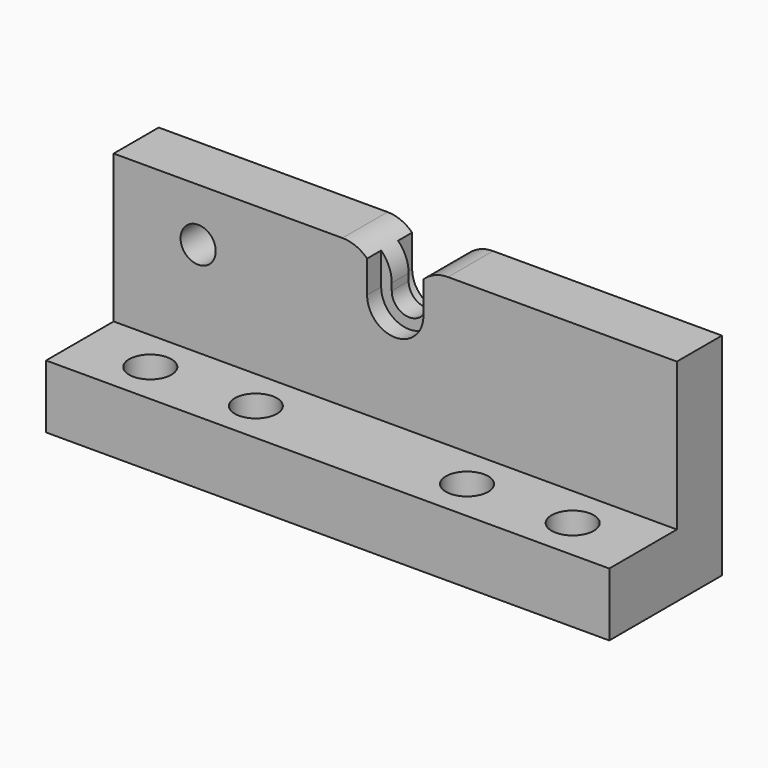
from build123d import *

# Parameters (mm, degrees)
F0_W      = 80
F0_H      = 8
F1_DEPTH  = 21
F3_DEPTH  = 25
F5_DEPTH  = 2.5
F7_DEPTH  = 2.5
F8_R      = 5
F9_W      = 80
F9_H      = 20
F10_DEPTH = 9
F11_R     = 2
F12_DEPTH = 25
F13_R     = 3
F14_DEPTH = 5
F15_R     = 2.5
F16_DEPTH = 25


with BuildPart() as f1:
    # F0 (on Top) → F1 (new body)
    with BuildSketch(Plane.XY):
        with Locations((40, 4)):
            Rectangle(F0_W, F0_H)
    extrude(amount=F1_DEPTH)

    # F2 (on face) → F3 (cut)
    with BuildSketch(Plane.XZ):
        with BuildLine():
            Line((37.5, 21), (37.5, 15))
            ThreePointArc((37.5, 15), (40, 12.5), (42.5, 15))
            Line((42.5, 15), (42.5, 21))
            Line((42.5, 21), (37.5, 21))
        make_face()
    extrude(amount=-F3_DEPTH, mode=Mode.SUBTRACT)

    # F4 (on face) → F5 (cut)
    with BuildSketch(Plane.XZ):
        with BuildLine():
            Line((36, 21), (36, 15))
            ThreePointArc((36, 15), (40, 11), (44, 15))
            Line((44, 15), (44, 21))
            Line((44, 21), (42.5, 21))
            Line((42.5, 21), (42.5, 15))
            ThreePointArc((42.5, 15), (40, 12.5), (37.5, 15))
            Line((37.5, 15), (37.5, 21))
            Line((37.5, 21), (36, 21))
        make_face()
    extrude(amount=-F5_DEPTH, mode=Mode.SUBTRACT)

    # F6 (on face) → F7 (cut)
    with BuildSketch(Plane(origin=(0, 8, 0), x_dir=(-1, 0, 0), z_dir=(0, 1, 0))):
        with BuildLine():
            Line((-44, 21), (-44, 15))
            ThreePointArc((-44, 15), (-40, 11), (-36, 15))
            Line((-36, 15), (-36, 21))
            Line((-36, 21), (-37.5, 21))
            Line((-37.5, 21), (-37.5, 15))
            ThreePointArc((-37.5, 15), (-40, 12.5), (-42.5, 15))
            Line((-42.5, 15), (-42.5, 21))
            Line((-42.5, 21), (-44, 21))
        make_face()
    extrude(amount=-F7_DEPTH, mode=Mode.SUBTRACT)

    # F8
    f8_edges = [f1.edges().sort_by_distance(p)[0] for p in [
        (42.5, 4, 21),
        (37.5, 4, 21),
    ]]
    fillet(f8_edges, radius=F8_R)

    # F9 (on face) → F10 (join)
    with BuildSketch(Plane(origin=(0, 0, 0), x_dir=(1, 0, 0), z_dir=(0, 0, -1))):
        with Locations((40, 2)):
            Rectangle(F9_W, F9_H)
    extrude(amount=F10_DEPTH)

    # F11 (on face) → F12 (cut)
    with BuildSketch(Plane.XY):
        with Locations((10, -6)):
            Circle(F11_R)
        with Locations((25, -6)):
            Circle(F11_R)
        with Locations((70, -6)):
            Circle(F11_R)
        with Locations((55, -6)):
            Circle(F11_R)
    extrude(amount=-F12_DEPTH, mode=Mode.SUBTRACT)

    # F13 (on face) → F14 (cut)
    with BuildSketch(Plane.XY):
        with Locations((10, -6)):
            Circle(F13_R)
        with Locations((25, -6)):
            Circle(F13_R)
        with Locations((55, -6)):
            Circle(F13_R)
        with Locations((70, -6)):
            Circle(F13_R)
    extrude(amount=-F14_DEPTH, mode=Mode.SUBTRACT)

    # F15 (on face) → F16 (cut)
    with BuildSketch(Plane.XZ):
        with Locations((12, 13.5)):
            Circle(F15_R)
    extrude(amount=-F16_DEPTH, mode=Mode.SUBTRACT)


solid = f1.part
